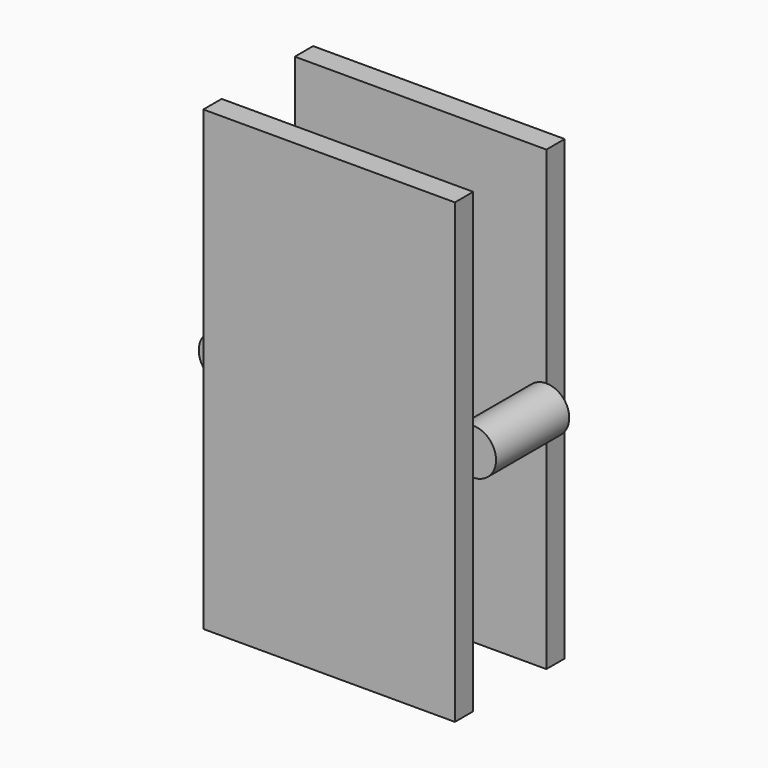
from build123d import *

# Parameters (mm, degrees)
F0_W     = 110
F0_H     = 200
F1_DEPTH = 10
F2_R     = 10
F3_DEPTH = 40
F4_W     = 110
F4_H     = 200
F5_DEPTH = 10
F6_R     = 10
F7_DEPTH = 19
F8_R     = 10
F9_DEPTH = 19


with BuildPart() as f1:
    # F0 (on Front) → F1 (new body)
    with BuildSketch(Plane.XZ):
        Rectangle(F0_W, F0_H)
    extrude(amount=F1_DEPTH)

    # F2 (on face) → F3 (join)
    with BuildSketch(Plane.XZ.offset(10)):
        with Locations((55, 0)):
            Circle(F2_R)
    extrude(amount=F3_DEPTH)

    # F4 (on face) → F5 (join)
    with BuildSketch(Plane.XZ.offset(50)):
        Rectangle(F4_W, F4_H)
    extrude(amount=F5_DEPTH)

    # F6 (on face) → F7 (join)
    with BuildSketch(Plane.XZ.offset(10)):
        with Locations((-55, 0)):
            Circle(F6_R)
    extrude(amount=F7_DEPTH)

    # F8 (on face) → F9 (join)
    with BuildSketch(Plane(origin=(0, -50, 0), x_dir=(-1, 0, 0), z_dir=(0, 1, 0))):
        with Locations((55, 0)):
            Circle(F8_R)
    extrude(amount=F9_DEPTH)


solid = f1.part
